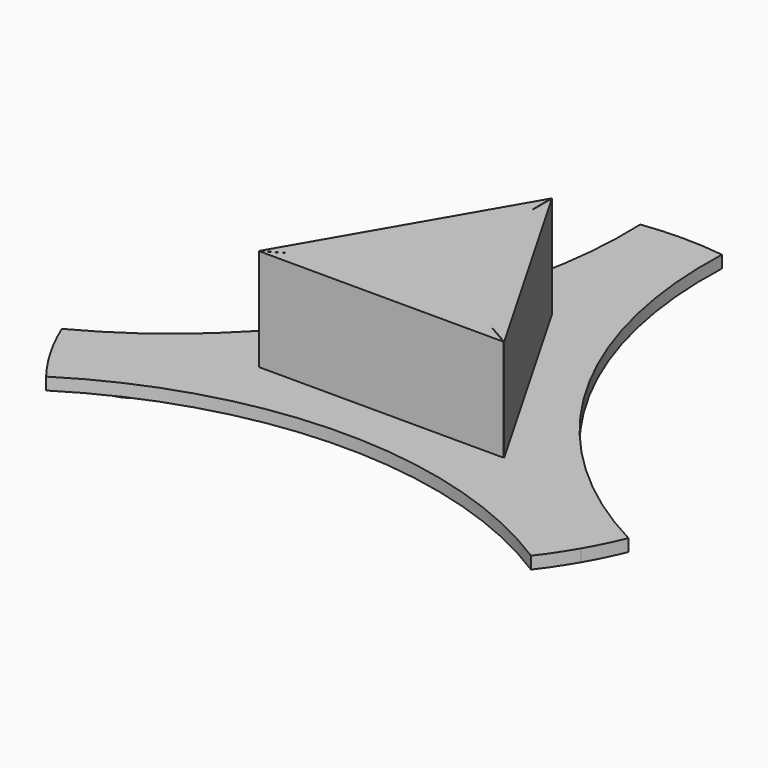
from build123d import *

# Parameters (mm, degrees)
F1_DEPTH = 3
F2_DEPTH = 3
F4_DEPTH = 25


with BuildPart() as f1:
    # F0 (on Top) → F1 (new body)
    with BuildSketch(Plane.XY):
        with BuildLine():
            ThreePointArc((-46.9615242271, -30), (-47.1318950956, -28.7059047745), (-47.6313972081, -27.5))
            Line((-47.6313972081, -27.5), (-56.291651246, -32.5))
            ThreePointArc((-56.291651246, -32.5), (-50.6674290016, -34.8296291314), (-46.9615242271, -30))
        make_face()
        with BuildLine():
            Line((-56.291651246, -32.5), (-47.6313972081, -27.5))
            ThreePointArc((-47.6313972081, -27.5), (-54.4615242271, -25.6698729811), (-56.291651246, -32.5))
        make_face()
    extrude(amount=-F1_DEPTH)


with BuildPart() as f1b:
    # F0 (on Top) → F1, piece 2 (new body)
    with BuildSketch(Plane.XY):
        with BuildLine():
            Line((56.291651246, -32.5), (47.6313972081, -27.5))
            ThreePointArc((47.6313972081, -27.5), (49.4615242271, -34.3301270189), (56.291651246, -32.5))
        make_face()
        with BuildLine():
            ThreePointArc((56.9615242271, -30), (53.2556194526, -25.1703708686), (47.6313972081, -27.5))
            Line((47.6313972081, -27.5), (56.291651246, -32.5))
            ThreePointArc((56.291651246, -32.5), (56.7911533585, -31.2940952255), (56.9615242271, -30))
        make_face()
    extrude(amount=-F1_DEPTH)


with BuildPart() as f1c:
    # F0 (on Top) → F1, piece 3 (new body)
    with BuildSketch(Plane.XY):
        with BuildLine():
            ThreePointArc((0, 65), (-5, 60), (0, 55))
            Line((0, 55), (0, 65))
        make_face()
        with BuildLine():
            Line((0, 65), (0, 55))
            ThreePointArc((0, 55), (3.5355339059, 56.4644660941), (5, 60))
            ThreePointArc((5, 60), (3.5355339059, 63.5355339059), (0, 65))
        make_face()
    extrude(amount=-F1_DEPTH)


with BuildPart() as f2:
    # F0 (on Top) → F2 (new body)
    with BuildSketch(Plane.XY):
        with BuildLine():
            Line((-56.291651246, -32.5), (-47.6313972081, -27.5))
            ThreePointArc((-47.6313972081, -27.5), (-54.4615242271, -25.6698729811), (-56.291651246, -32.5))
        make_face()
        with BuildLine():
            ThreePointArc((-46.9615242271, -30), (-47.1318950956, -28.7059047745), (-47.6313972081, -27.5))
            Line((-47.6313972081, -27.5), (-56.291651246, -32.5))
            ThreePointArc((-56.291651246, -32.5), (-50.6674290016, -34.8296291314), (-46.9615242271, -30))
        make_face()
        with BuildLine():
            Line((0, 65), (0, 55))
            ThreePointArc((0, 55), (3.5355339059, 56.4644660941), (5, 60))
            ThreePointArc((5, 60), (3.5355339059, 63.5355339059), (0, 65))
        make_face()
        with BuildLine():
            ThreePointArc((0, 65), (-5, 60), (0, 55))
            Line((0, 55), (0, 65))
        make_face()
        with BuildLine():
            ThreePointArc((56.9615242271, -30), (53.2556194526, -25.1703708686), (47.6313972081, -27.5))
            Line((47.6313972081, -27.5), (56.291651246, -32.5))
            ThreePointArc((56.291651246, -32.5), (56.7911533585, -31.2940952255), (56.9615242271, -30))
        make_face()
        with BuildLine():
            Line((56.291651246, -32.5), (47.6313972081, -27.5))
            ThreePointArc((47.6313972081, -27.5), (49.4615242271, -34.3301270189), (56.291651246, -32.5))
        make_face()
        with BuildLine():
            Line((47.6313972081, -27.5), (0, 0))
            Line((0, 0), (-47.6313972081, -27.5))
            ThreePointArc((-47.6313972081, -27.5), (-47.1318950956, -28.7059047745), (-46.9615242271, -30))
            ThreePointArc((-46.9615242271, -30), (-50.6674290016, -34.8296291314), (-56.291651246, -32.5))
            Line((-56.291651246, -32.5), (-64.9519052838, -37.5))
            ThreePointArc((-64.9519052838, -37.5), (-62.3011590473, -41.7560244918), (-59.3719659479, -45.8254259061))
            ThreePointArc((-59.3719659479, -45.8254259061), (0, -28.6122568553), (59.3719659479, -45.8254259061))
            ThreePointArc((59.3719659479, -45.8254259061), (62.3011590473, -41.7560244918), (64.9519052838, -37.5))
            Line((64.9519052838, -37.5), (56.291651246, -32.5))
            ThreePointArc((56.291651246, -32.5), (49.4615242271, -34.3301270189), (47.6313972081, -27.5))
        make_face()
        with BuildLine():
            Line((0, 55), (0, 0))
            Line((0, 0), (47.6313972081, -27.5))
            ThreePointArc((47.6313972081, -27.5), (53.2556194526, -25.1703708686), (56.9615242271, -30))
            ThreePointArc((56.9615242271, -30), (56.7911533585, -31.2940952255), (56.291651246, -32.5))
            Line((56.291651246, -32.5), (64.9519052838, -37.5))
            ThreePointArc((64.9519052838, -37.5), (67.3123574946, -33.0763741743), (69.3719659479, -28.5049178305))
            ThreePointArc((69.3719659479, -28.5049178305), (24.7789412963, 14.3061284276), (10, 74.3303437366))
            ThreePointArc((10, 74.3303437366), (5.0111984473, 74.8323986661), (0, 75))
            Line((0, 75), (0, 65))
            ThreePointArc((0, 65), (3.5355339059, 63.5355339059), (5, 60))
            ThreePointArc((5, 60), (3.5355339059, 56.4644660941), (0, 55))
        make_face()
        with BuildLine():
            Line((-47.6313972081, -27.5), (0, 0))
            Line((0, 0), (0, 55))
            ThreePointArc((0, 55), (-5, 60), (0, 65))
            Line((0, 65), (0, 75))
            ThreePointArc((0, 75), (-5.0111984473, 74.8323986661), (-10, 74.3303437366))
            ThreePointArc((-10, 74.3303437366), (-24.7789412963, 14.3061284276), (-69.3719659479, -28.5049178305))
            ThreePointArc((-69.3719659479, -28.5049178305), (-67.3123574946, -33.0763741743), (-64.9519052838, -37.5))
            Line((-64.9519052838, -37.5), (-56.291651246, -32.5))
            ThreePointArc((-56.291651246, -32.5), (-54.4615242271, -25.6698729811), (-47.6313972081, -27.5))
        make_face()
    extrude(amount=F2_DEPTH)

    # F3 (on face) → F4 (join)
    with BuildSketch(Plane.XY.offset(3)):
        Polygon((0.0416322801, 28.7569014453), (0, 34.6700313418), (-30.0751948323, -17.2480065237), (-24.8659746101, -14.2404618261), (0, 28.6850327074), align=None)
        Polygon((0.100385602, 28.6547966152), (0.0416322801, 28.7569014453), (0, 28.6850327074), (-24.8659746101, -14.2404618261), (-24.9250233258, -14.3423961105), (-24.841967033, -14.3425163537), (24.7655890081, -14.4143347891), (24.8833910457, -14.4145053349), (24.841967033, -14.3425163537), align=None)
        Polygon((0.100385602, 34.6698860104), (0.100385602, 28.6547966152), (24.841967033, -14.3425163537), (24.8833910457, -14.4145053349), (30.025127892, -17.3350156709), align=None)
        Polygon((-24.841967033, -14.3425163537), (-24.9250233258, -14.3423961105), (-30.025127892, -17.3350156709), (29.9748092303, -17.4218794867), (24.7655890081, -14.4143347891), align=None)
    extrude(amount=F4_DEPTH)


solid = Compound([f1.part, f1b.part, f1c.part, f2.part])
